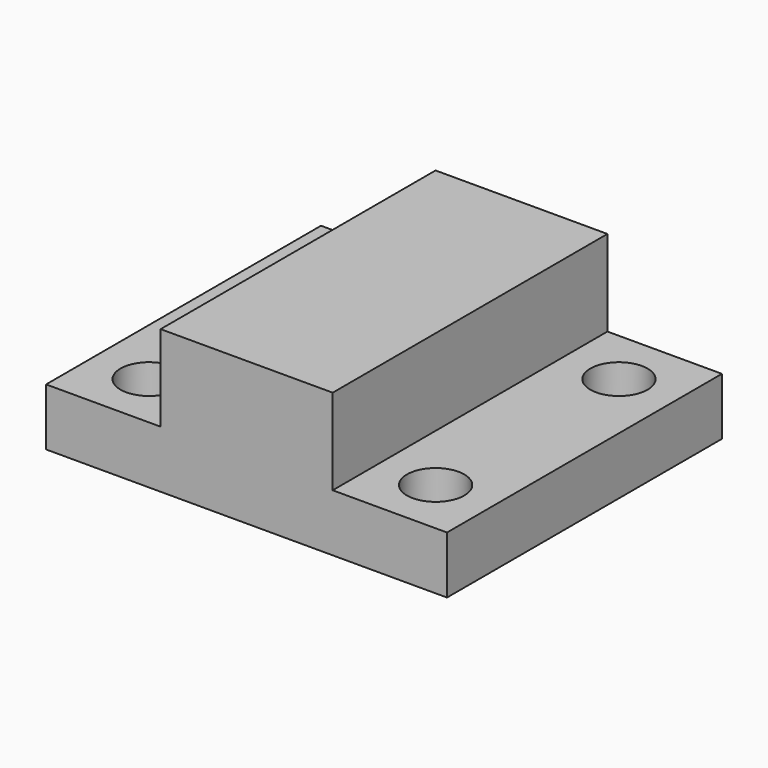
from build123d import *

# Parameters (mm, degrees)
F1_DEPTH = 127
F0_W     = 101.6
F0_H     = 304.8
F0_R     = 25.4
F2_DEPTH = 50.8


with BuildPart() as f1:
    # F0 (on Top) → F1 (new body)
    with BuildSketch(Plane.XY):
        Polygon((308.34184, 208.50426), (155.882336, 208.50426), (155.882336, -96.29574), (308.49275, -96.29574), align=None)
    extrude(amount=F1_DEPTH)

    # F0 (on Top) → F2 (join)
    with BuildSketch(Plane.XY):
        with Locations((105.082336, 56.10426)):
            Rectangle(F0_W, F0_H)
        with Locations((105.082336, -45.49574)):
            Circle(F0_R, mode=Mode.SUBTRACT)
        with Locations((105.082336, 157.710619)):
            Circle(F0_R, mode=Mode.SUBTRACT)
        Polygon((308.34184, 208.50426), (155.882336, 208.50426), (155.882336, -96.29574), (308.49275, -96.29574), align=None)
        Polygon((409.882336, 208.50426), (308.34184, 208.50426), (308.49275, -96.29574), (409.882336, -96.29574), align=None)
        with Locations((359.175516, -45.538369)):
            Circle(F0_R, mode=Mode.SUBTRACT)
        with Locations((359.166974, 157.740726)):
            Circle(F0_R, mode=Mode.SUBTRACT)
    extrude(amount=F2_DEPTH)


solid = f1.part
